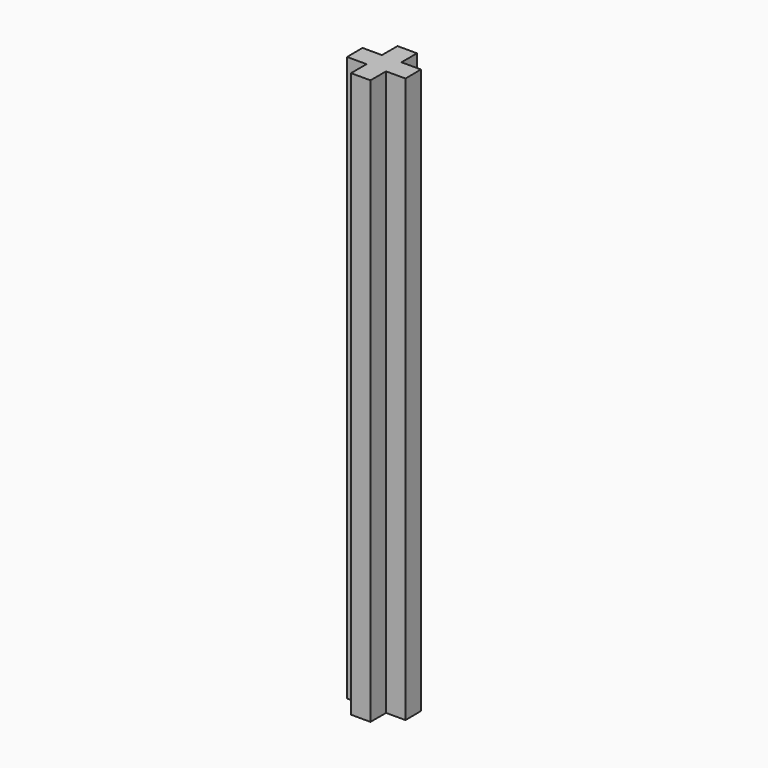
from build123d import *

# Parameters (mm, degrees)
F1_DEPTH = 46.0375


with BuildPart() as f1:
    # F0 (on Top) → F1 (new body)
    with BuildSketch(Plane.XY):
        Polygon((-1.5875, 0), (0, 0), (-0.016257, 1.587417), (-1.603757, 1.5875), (-1.603757, 3.175), (-3.191257, 3.175), (-3.191257, 1.5875), (-4.778757, 1.5875), (-4.7625, 8.3e-05), (-3.175, 0), (-3.175, -1.5875), (-1.5875, -1.5875), align=None)
    extrude(amount=F1_DEPTH)


solid = f1.part
